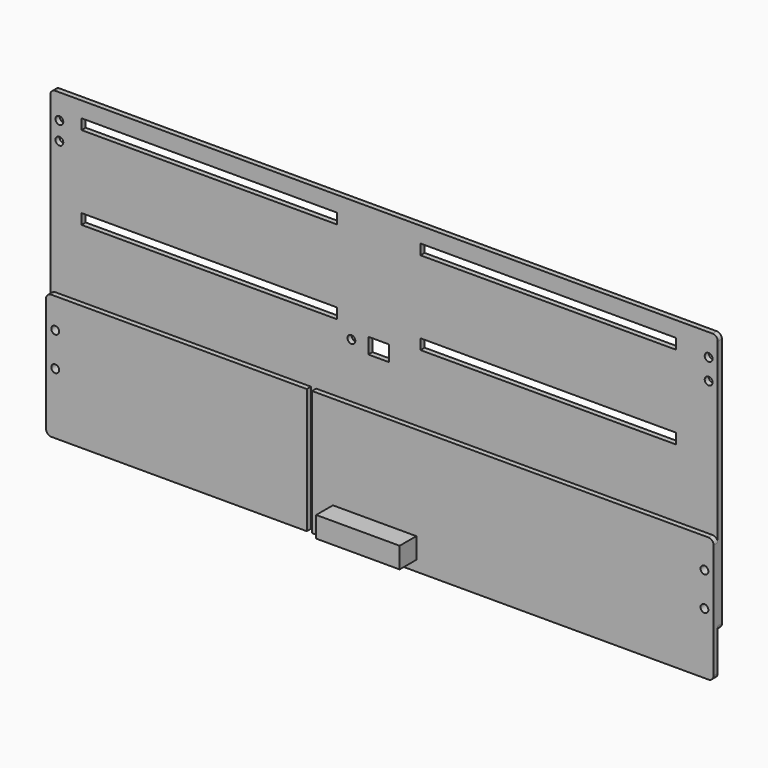
from build123d import *

# Parameters (mm, degrees)
F0_W      = 406.4
F0_H      = 158.75
F1_DEPTH  = 3.175
F2_R      = 3.175
F3_R      = 3.175
F4_R      = 3.175
F5_R      = 3.175
F6_W      = 155.575
F6_H      = 6.35
F7_DEPTH  = 3.175
F8_W      = 155.575
F8_H      = 6.35
F9_DEPTH  = 3.175
F10_W     = 155.575
F10_H     = 6.35
F11_DEPTH = 3.175
F12_W     = 155.575
F12_H     = 6.35
F13_DEPTH = 25.4
F14_W     = 12.7
F14_H     = 9.525
F15_DEPTH = 25.4
F16_R     = 2.38125
F17_DEPTH = 3.175
F18_R     = 2.38125
F19_DEPTH = 25.4
F20_R     = 2.38125
F21_DEPTH = 25.4
F22_W     = 406.4
F22_H     = 76.2
F23_DEPTH = 3.175
F24_R     = 3.175
F25_R     = 3.175
F26_W     = 12.7
F26_H     = 12.7
F27_DEPTH = 25.4
F28_R     = 2.38125
F29_DEPTH = 25.4
F30_W     = 50.8
F30_H     = 12.7
F31_DEPTH = 12.7
F32_W     = 3.175
F32_H     = 76.2
F33_DEPTH = 3.175


with BuildPart() as f1:
    # F0 (on Front) → F1 (new body)
    with BuildSketch(Plane.XZ):
        with Locations((8.5284784436, -21.1847552925)):
            Rectangle(F0_W, F0_H)
    extrude(amount=F1_DEPTH)

    # F2
    f2_edges = [f1.edges().sort_by_distance(p)[0] for p in [
        (-194.671522, -1.5875, 58.190245),
    ]]
    fillet(f2_edges, radius=F2_R)

    # F3
    f3_edges = [f1.edges().sort_by_distance(p)[0] for p in [
        (211.728478, -1.5875, 58.190245),
    ]]
    fillet(f3_edges, radius=F3_R)

    # F4
    f4_edges = [f1.edges().sort_by_distance(p)[0] for p in [
        (211.728478, -1.5875, -100.559755),
    ]]
    fillet(f4_edges, radius=F4_R)

    # F5
    f5_edges = [f1.edges().sort_by_distance(p)[0] for p in [
        (-194.671522, -1.5875, -100.559755),
    ]]
    fillet(f5_edges, radius=F5_R)

    # F6 (on face) → F7 (cut)
    with BuildSketch(Plane.XZ.offset(3.175)):
        with Locations((-97.8340215564, 45.4902447075)):
            Rectangle(F6_W, F6_H)
    extrude(amount=-F7_DEPTH, mode=Mode.SUBTRACT)

    # F8 (on face) → F9 (cut)
    with BuildSketch(Plane.XZ.offset(3.175)):
        with Locations((-97.8340215564, -5.3097552925)):
            Rectangle(F8_W, F8_H)
    extrude(amount=-F9_DEPTH, mode=Mode.SUBTRACT)

    # F10 (on face) → F11 (cut)
    with BuildSketch(Plane.XZ.offset(3.175)):
        with Locations((108.5409784436, 45.4902447075)):
            Rectangle(F10_W, F10_H)
    extrude(amount=-F11_DEPTH, mode=Mode.SUBTRACT)

    # F12 (on face) → F13 (cut)
    with BuildSketch(Plane.XZ.offset(3.175)):
        with Locations((108.5409784436, -5.3097552925)):
            Rectangle(F12_W, F12_H)
    extrude(amount=-F13_DEPTH, mode=Mode.SUBTRACT)

    # F14 (on face) → F15 (cut)
    with BuildSketch(Plane.XZ.offset(3.175)):
        with Locations((5.3534784436, -16.4222552925)):
            Rectangle(F14_W, F14_H)
    extrude(amount=-F15_DEPTH, mode=Mode.SUBTRACT)

    # F16 (on face) → F17 (cut)
    with BuildSketch(Plane.XZ.offset(3.175)):
        with Locations((-11.3152715564, -16.4666101336)):
            Circle(F16_R)
    extrude(amount=-F17_DEPTH, mode=Mode.SUBTRACT)

    # F18 (on face) → F19 (cut)
    with BuildSketch(Plane.XZ.offset(3.175)):
        with Locations((-189.1152715564, 43.1089947075)):
            Circle(F18_R)
        with Locations((-189.1152715564, 31.9964947075)):
            Circle(F18_R)
    extrude(amount=-F19_DEPTH, mode=Mode.SUBTRACT)

    # F20 (on face) → F21 (cut)
    with BuildSketch(Plane.XZ.offset(3.175)):
        with Locations((206.1722284436, 44.6964947075)):
            Circle(F20_R)
        with Locations((206.1722284436, 31.9964947075)):
            Circle(F20_R)
    extrude(amount=-F21_DEPTH, mode=Mode.SUBTRACT)

    # F22 (on face) → F23 (join)
    with BuildSketch(Plane.XZ.offset(3.175)):
        with Locations((8.5284784436, -87.8597552925)):
            Rectangle(F22_W, F22_H)
    extrude(amount=F23_DEPTH)

    # F24
    f24_edges = [f1.edges().sort_by_distance(p)[0] for p in [
        (-194.671522, -4.7625, -125.959755),
        (211.728478, -4.7625, -125.959755),
    ]]
    fillet(f24_edges, radius=F24_R)

    # F25
    f25_edges = [f1.edges().sort_by_distance(p)[0] for p in [
        (211.728478, -4.7625, -49.759755),
        (-194.671522, -4.7625, -49.759755),
    ]]
    fillet(f25_edges, radius=F25_R)

    # F26 (on face) → F27 (cut)
    with BuildSketch(Plane.XZ.offset(6.35)):
        with Locations((5.3534784436, -119.6097552925)):
            Rectangle(F26_W, F26_H)
    extrude(amount=-F27_DEPTH, mode=Mode.SUBTRACT)

    # F28 (on face) → F29 (cut)
    with BuildSketch(Plane.XZ.offset(6.35)):
        with Locations((206.1722284436, -68.0160052925)):
            Circle(F28_R)
        with Locations((206.1722284436, -88.6535052925)):
            Circle(F28_R)
        with Locations((-189.1152715564, -68.0160052925)):
            Circle(F28_R)
        with Locations((-189.1152715564, -88.6535052925)):
            Circle(F28_R)
    extrude(amount=-F29_DEPTH, mode=Mode.SUBTRACT)

    # F30 (on face) → F31 (join)
    with BuildSketch(Plane.XZ.offset(6.35)):
        with Locations((5.3534784436, -113.2597552925)):
            Rectangle(F30_W, F30_H)
    extrude(amount=F31_DEPTH)

    # F32 (on face) → F33 (cut)
    with BuildSketch(Plane.XZ.offset(6.35)):
        with Locations((-34.3340215564, -87.8597552925)):
            Rectangle(F32_W, F32_H)
    extrude(amount=-F33_DEPTH, mode=Mode.SUBTRACT)


solid = f1.part
